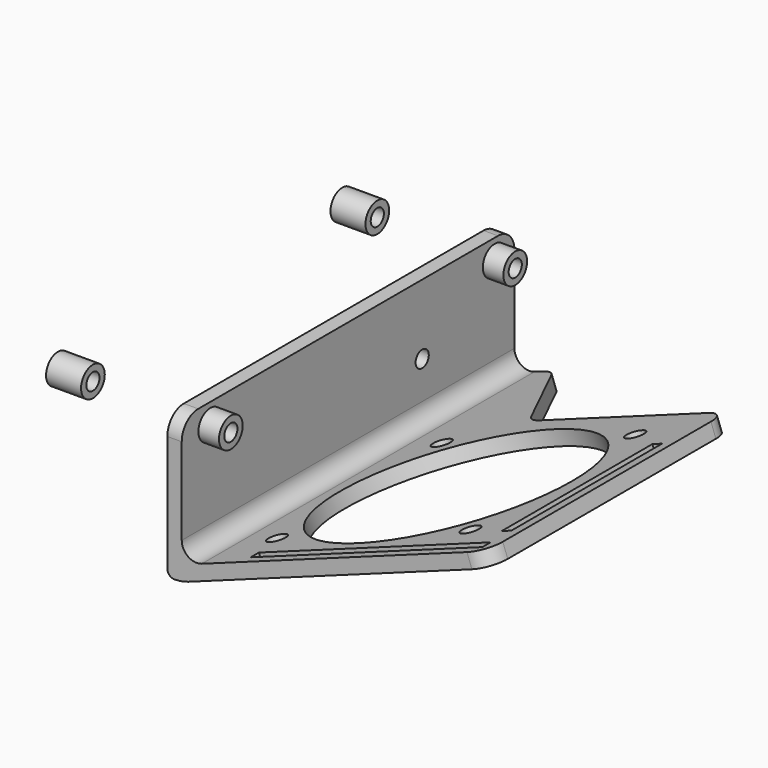
from build123d import *

# Parameters (mm, degrees)
F1_DEPTH  = 101
F2_R      = 2
F3_DEPTH  = 3.501
F4_R      = 3.6
F4_R_2    = 2
F5_DEPTH  = 5
F7_D      = 4.4
F7_DEPTH  = 29.2125043875
F8_R      = 30
F9_DEPTH  = 29.2125043875
F10_W     = 2.5
F10_H     = 45.7440251485
F10_W_2   = 59.867
F10_H_2   = 2.5
F11_DEPTH = 29.2125043875
F12_R     = 5
F16_R     = 3.6
F16_R_2   = 2
F17_DEPTH = 8.5


with BuildPart() as f1:
    # F0 (on Front) → F1 (new body)
    with BuildSketch(Plane.XZ):
        with BuildLine():
            ThreePointArc((0, 1.6910881801), (0.4953082604, 0.4953082604), (1.6910881801, 0))
            Line((1.6910881801, 0), (1.7692948072, 0))
            ThreePointArc((1.7692948072, 0), (3.4737066992, 0.1491167185), (5.1263308984, 0.5919360381))
            Line((5.1263308984, 0.5919360381), (78.6754096629, 27.3616114661))
            Line((78.6754096629, 27.3616114661), (77.4783391612, 30.6505356388))
            Line((77.4783391612, 30.6505356388), (8.3789960821, 5.5004315507))
            ThreePointArc((8.3789960821, 5.5004315507), (5.0502888736, 5.9386641684), (3.5, 8.9167413863))
            Line((3.5, 8.9167413863), (3.5, 35))
            Line((3.5, 35), (0, 35))
            Line((0, 35), (0, 1.6910881801))
        make_face()
    extrude(amount=-F1_DEPTH)

    # F2 (on face) → F3 (cut, through all)
    with BuildSketch(Plane.YZ.offset(3.5)):
        with Locations((95, 30.1014762372)):
            Circle(F2_R)
        with Locations((73, 18.0514762372)):
            Circle(F2_R)
        with Locations((8.66, 30.1014762372)):
            Circle(F2_R)
    extrude(amount=-F3_DEPTH, mode=Mode.SUBTRACT)

    # F4 (on face) → F5 (join)
    with BuildSketch(Plane.YZ.offset(3.5)):
        with Locations((8.66, 30.1014762372)):
            Circle(F4_R)
        with Locations((8.66, 30.1014762372)):
            Circle(F4_R_2, mode=Mode.SUBTRACT)
        with Locations((95, 30.1014762372)):
            Circle(F4_R)
        with Locations((95, 30.1014762372)):
            Circle(F4_R_2, mode=Mode.SUBTRACT)
    extrude(amount=F5_DEPTH)

    # F7 (through all, one way)
    with BuildSketch(Plane(origin=(-0.7876482771, 0, 2.1640458558), x_dir=(0.9396926208, 0, 0.3420201433), z_dir=(-0.3420201433, 0, 0.9396926208))):
        with Locations((18.2889241728, 12.8), (18.2889241728, 62.8), (68.2889241728, 62.8), (68.2889241728, 12.8)):
            Circle(F7_D / 2)
    extrude(amount=-F7_DEPTH, mode=Mode.SUBTRACT)

    # F8 (on face) → F9 (cut, through all)
    with BuildSketch(Plane(origin=(-0.7876482771, 0, 2.1640458558), x_dir=(0.9396926208, 0, 0.3420201433), z_dir=(-0.3420201433, 0, 0.9396926208))):
        with Locations((43.2889241728, 37.8)):
            Circle(F8_R)
    extrude(amount=-F9_DEPTH, mode=Mode.SUBTRACT)

    # F10 (on face) → F11 (cut, through all)
    with BuildSketch(Plane(origin=(-0.7876482771, 0, 2.1640458558), x_dir=(0.9396926208, 0, 0.3420201433), z_dir=(-0.3420201433, 0, 0.9396926208))):
        Polygon((83.2889241728, 101), (14.622095041, 101), (32.038141042, 73.1842829585), (83.2889241728, 73.1842829585), align=None)
        with Locations((79.0480536222, 33.9913400821)):
            Rectangle(F10_W, F10_H)
        with Locations((50.2231278352, 3.7078128941)):
            Rectangle(F10_W_2, F10_H_2)
    extrude(amount=-F11_DEPTH, mode=Mode.SUBTRACT)

    # F12
    f12_edges = [f1.edges().sort_by_distance(p)[0] for p in [
        (13.551162, 101, 5.520635),
        (29.916892, 73.184283, 11.477273),
        (78.076874, 73.184283, 29.006074),
        (78.076874, 0, 29.006074),
        (1.75, 0, 35),
        (1.75, 101, 35),
    ]]
    fillet(f12_edges, radius=F12_R)


with BuildPart() as f17:
    # F16 (on offset) → F17 (new body)
    with BuildSketch(Plane.YZ.offset(-25)):
        with Locations((95, 30.1014762372)):
            Circle(F16_R)
        with Locations((95, 30.1014762372)):
            Circle(F16_R_2, mode=Mode.SUBTRACT)
    extrude(amount=-F17_DEPTH)


with BuildPart() as f17b:
    # F16 (on offset) → F17, piece 2 (new body)
    with BuildSketch(Plane.YZ.offset(-25)):
        with Locations((8.66, 30.1014762372)):
            Circle(F16_R)
        with Locations((8.66, 30.1014762372)):
            Circle(F16_R_2, mode=Mode.SUBTRACT)
    extrude(amount=-F17_DEPTH)


solid = Compound([f1.part, f17.part, f17b.part])
